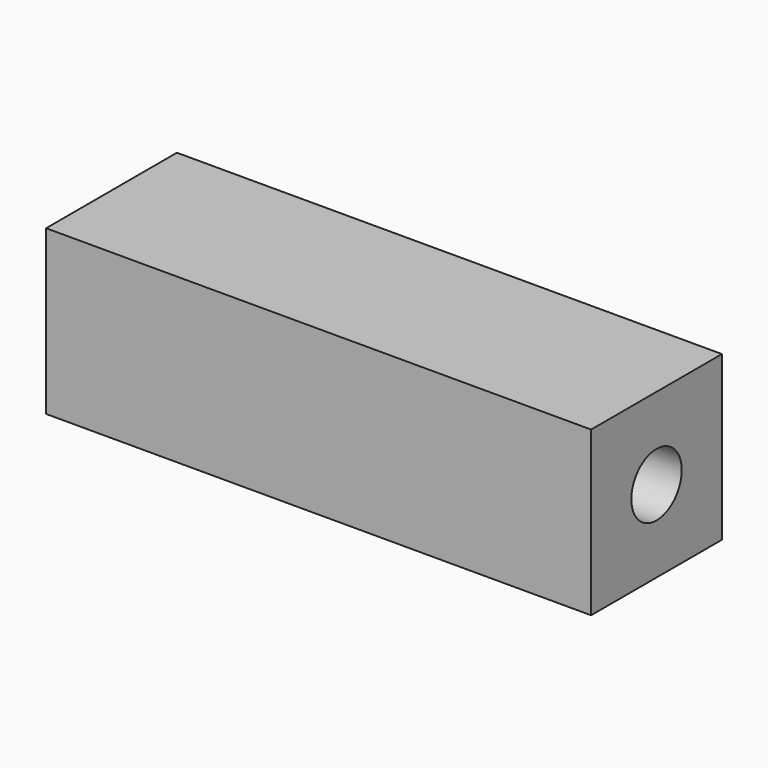
from build123d import *

# Parameters (mm, degrees)
F0_W     = 30
F0_H     = 30
F1_DEPTH = 100
F2_R     = 5.780298
F3_DEPTH = 200


with BuildPart() as f1:
    # F0 (on Right) → F1 (new body)
    with BuildSketch(Plane.YZ):
        Rectangle(F0_W, F0_H)
    extrude(amount=F1_DEPTH)

    # F2 (on face) → F3 (cut)
    with BuildSketch(Plane(origin=(0, 0, 0), x_dir=(0, -1, 0), z_dir=(-1, 0, 0))):
        Circle(F2_R)
    extrude(amount=-F3_DEPTH, mode=Mode.SUBTRACT)


solid = f1.part
